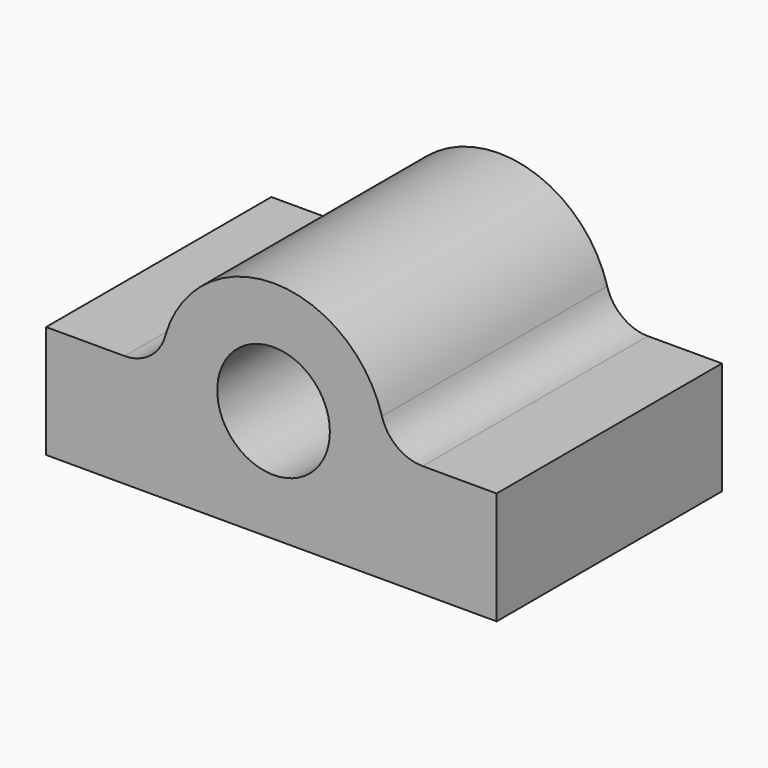
from build123d import *

# Parameters (mm, degrees)
F0_R     = 25.4
F1_DEPTH = 127
F2_R     = 6.35
F3_DEPTH = 31.75


with BuildPart() as f1:
    # F0 (on Front) → F1 (new body)
    with BuildSketch(Plane.XZ):
        with BuildLine():
            Line((100.60947, -50.8), (100.60947, 0))
            Line((100.60947, 0), (67.202083, 0))
            ThreePointArc((67.202083, 0), (55.714501, 3.853357), (48.874242, 13.854545))
            ThreePointArc((48.874242, 13.854545), (0, 50.8), (-48.874242, 13.854545))
            ThreePointArc((-48.874242, 13.854545), (-55.714501, 3.853357), (-67.202083, 0))
            Line((-67.202083, 0), (-102.59053, 0))
            Line((-102.59053, 0), (-102.59053, -50.8))
            Line((-102.59053, -50.8), (100.60947, -50.8))
        make_face()
        Circle(F0_R, mode=Mode.SUBTRACT)
    extrude(amount=F1_DEPTH)

    # F2 (on face) → F3 (cut)
    with BuildSketch(Plane(origin=(0, 0, -50.8), x_dir=(1, 0, 0), z_dir=(0, 0, -1))):
        with Locations((-77.19053, 101.6)):
            Circle(F2_R)
        with Locations((75.20947, 101.6)):
            Circle(F2_R)
        with Locations((75.20947, 25.4)):
            Circle(F2_R)
        with Locations((-77.19053, 25.4)):
            Circle(F2_R)
    extrude(amount=-F3_DEPTH, mode=Mode.SUBTRACT)


solid = f1.part
